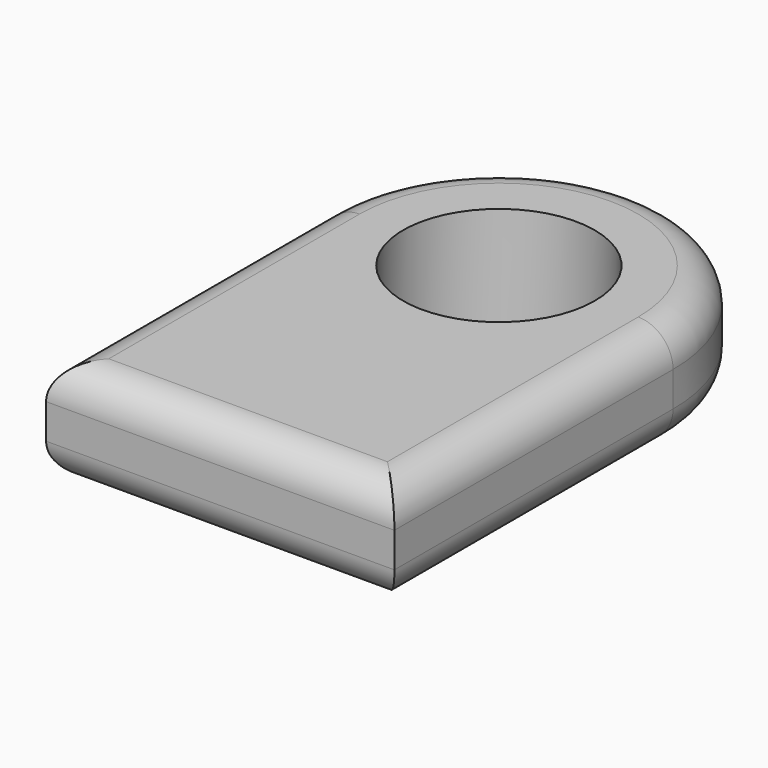
from build123d import *

# Parameters (mm, degrees)
F0_R     = 2.75
F1_DEPTH = 3
F2_R     = 1


with BuildPart() as f1:
    # F0 (on Top) → F1 (new body)
    with BuildSketch(Plane.XY):
        with BuildLine():
            Line((5, -10), (5, 0))
            ThreePointArc((5, 0), (0, -5), (-5, 0))
            Line((-5, 0), (-5, -10))
            Line((-5, -10), (5, -10))
        make_face()
        with BuildLine():
            ThreePointArc((-5, 0), (0, -5), (5, 0))
            ThreePointArc((5, 0), (0, 5), (-5, 0))
        make_face()
        Circle(F0_R, mode=Mode.SUBTRACT)
    extrude(amount=F1_DEPTH)

    # F2
    f2_edges = [f1.edges().sort_by_distance(p)[0] for p in [
        (5, -5, 0),
        (5, -5, 3),
        (0, -10, 3),
        (-5, 0, 1.5),
        (-5, -5, 0),
        (-5, -5, 3),
        (0, -10, 0),
    ]]
    fillet(f2_edges, radius=F2_R)


solid = f1.part
